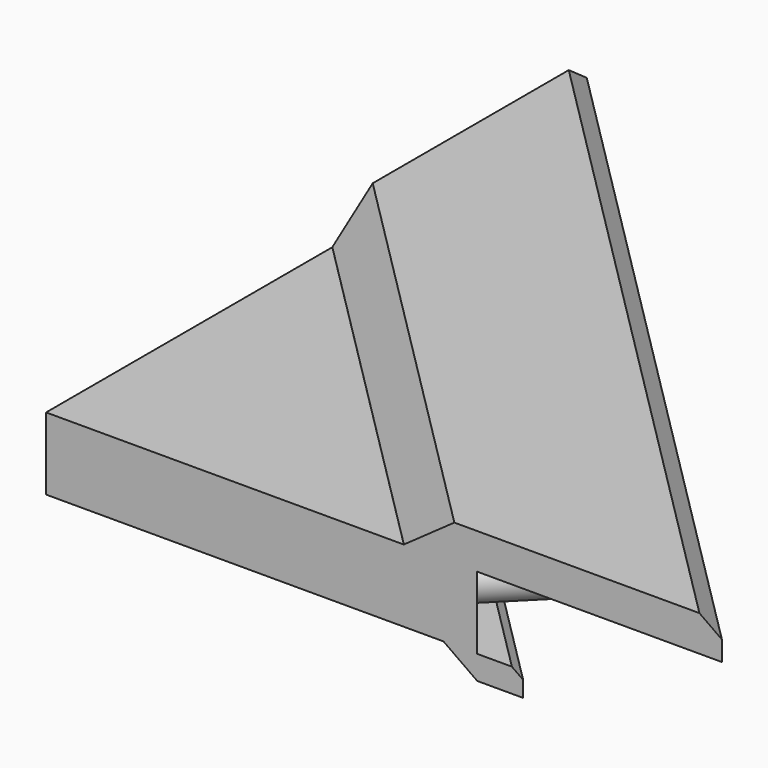
from build123d import *

# Parameters (mm, degrees)
PAD_DEPTH              = 4.55
SKETCH001_R            = 2.9
PAD001_DEPTH           = 12
LINEARPATTERN_COUNT    = 2
LINEARPATTERN_PITCH    = 30
LINEARPATTERN001_COUNT = 2
LINEARPATTERN001_PITCH = 30
PAD002_DEPTH           = 4.5
CHAMFER_SIZE           = 4.49
CHAMFER001_SIZE        = 2
PAD003_DEPTH           = 3
CHAMFER002_SIZE        = 2.99
CHAMFER003_SIZE        = 1


with BuildPart() as part:
    # Sketch → Pad (new body, symmetric)
    with BuildSketch(Plane.XY):
        Polygon((0, 0), (54.2, 0), (0, 54.2), align=None)
    extrude(amount=PAD_DEPTH, both=True)

    # Sketch001 (on Face2 of Pad) → Pad001 (join)
    with BuildSketch(Plane(origin=(27.1, 27.1, 0), x_dir=(-0.707107, 0.707107, 0), z_dir=(0.707107, 0.707107, 0))):
        Circle(SKETCH001_R)
    pad001 = extrude(amount=PAD001_DEPTH)

    # LinearPattern: Pad001 ×2
    with Locations(*[Vector(-0.707107, 0.707107, 0) * (i * LINEARPATTERN_PITCH) for i in range(1, LINEARPATTERN_COUNT)]):
        add(pad001)

    # LinearPattern001: Pad001 ×2
    with Locations(*[Vector(0.707107, -0.707107, 0) * (i * LINEARPATTERN001_PITCH) for i in range(1, LINEARPATTERN001_COUNT)]):
        add(pad001)

    # Sketch002 (on Face5 of LinearPattern001) → Pad002 (join)
    with BuildSketch(Plane.XY.offset(4.55)):
        Polygon((0, 85), (0, 45), (45, 0), (85, 0), align=None)
    extrude(amount=PAD002_DEPTH)

    # Chamfer
    chamfer_edges = [part.edges().sort_by_distance(p)[0] for p in [
        (22.5, 22.5, 9.05),
    ]]
    chamfer(chamfer_edges, length=CHAMFER_SIZE)

    # Chamfer001
    chamfer001_edges = [part.edges().sort_by_distance(p)[0] for p in [
        (42.5, 42.5, 9.05),
    ]]
    chamfer(chamfer001_edges, length=CHAMFER001_SIZE)

    # Sketch003 (on Face11 of Chamfer001) → Pad003 (join)
    with BuildSketch(Plane(origin=(0, 0, -4.55), x_dir=(1, 0, 0), z_dir=(0, 0, -1))):
        Polygon((60, 0), (50, 0), (0, -50), (0, -60), align=None)
    extrude(amount=PAD003_DEPTH)

    # Chamfer002
    chamfer002_edges = [part.edges().sort_by_distance(p)[0] for p in [
        (25, 25, -7.55),
    ]]
    chamfer(chamfer002_edges, length=CHAMFER002_SIZE)

    # Chamfer003
    chamfer003_edges = [part.edges().sort_by_distance(p)[0] for p in [
        (30, 30, -4.55),
    ]]
    chamfer(chamfer003_edges, length=CHAMFER003_SIZE)


solid = part.part
